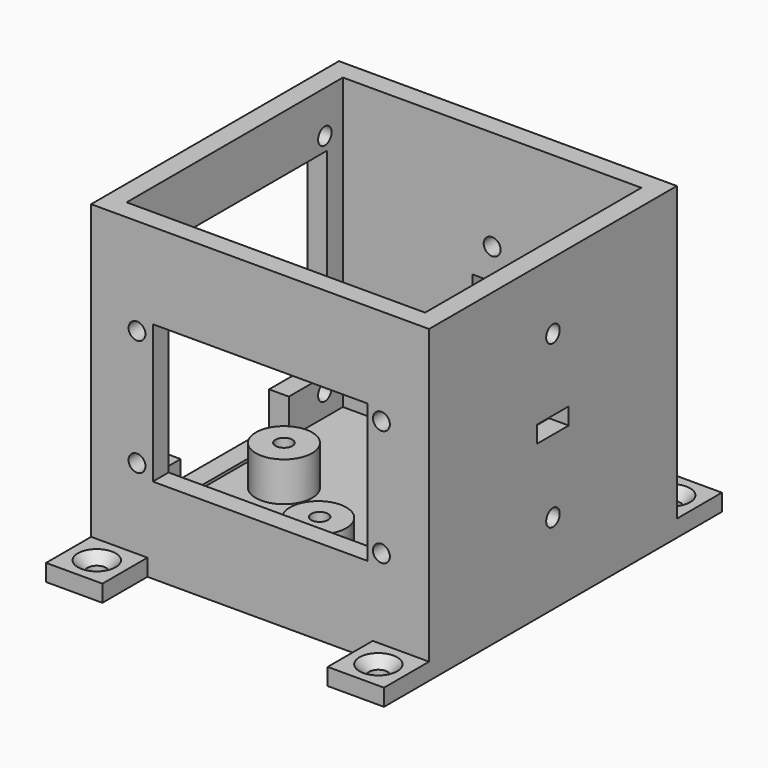
from build123d import *

# Parameters (mm, degrees)
F0_W            = 60
F0_H            = 55
F1_DEPTH        = 55
F2_T            = -3.5
F4_DEPTH        = 5
F6_D            = 3
F6_DEPTH        = 12
F6_TIP          = 0.9012909285
F8_D            = 3
F8_DEPTH        = 12
F8_TIP          = 0.9012909285
F7_W            = 41
F7_H            = 35
F9_DEPTH        = 25
F10_R           = 5
F11_DEPTH       = 7
F13_D           = 3
F13_DEPTH       = 5
F13_TIP         = 0.9012909285
F14_W           = 7
F14_H           = 3
F15_DEPTH       = 5
F16_W           = 7
F16_H           = 5
F17_DEPTH       = 5
F18_W           = 24
F18_H           = 6
F19_DEPTH       = 4
F21_D           = 3
F21_DEPTH       = 5
F21_TIP         = 0.9012909285
F23_D           = 3
F23_DEPTH       = 5
F23_TIP         = 0.9012909285
F24_W           = 10
F24_H           = 3
F25_DEPTH       = 10
F27_D           = 3.3
F27_DEPTH       = 5
F27_CSINK_D     = 6.72
F27_CSINK_ANGLE = 90
F27_TIP         = 0.9914200214
F29_D           = 3.3
F29_DEPTH       = 5
F29_CSINK_D     = 6.72
F29_CSINK_ANGLE = 90
F29_TIP         = 0.9914200214
F30_W           = 10
F30_H           = 3
F31_DEPTH       = 10
F32_DEPTH       = 10
F34_D           = 3.3
F34_DEPTH       = 5
F34_CSINK_D     = 6.72
F34_CSINK_ANGLE = 90
F34_TIP         = 0.9914200214


with BuildPart() as f1:
    # F0 (on Top) → F1 (new body)
    with BuildSketch(Plane.XY):
        Rectangle(F0_W, F0_H)
    extrude(amount=F1_DEPTH)

    # F2
    f2_openings = [f1.faces().sort_by_distance(p)[0] for p in [
        (0, 0, 55),
    ]]
    offset(amount=F2_T, openings=f2_openings)

    # F3 (on face) → F4 (cut)
    with BuildSketch(Plane.XZ.offset(27.5)):
        Polygon((19.05, 39.8), (-19.05, 39.8), (-19.05, 15.2), (0, 15.2), (19.05, 15.2), align=None)
    extrude(amount=-F4_DEPTH, mode=Mode.SUBTRACT)

    # F6
    with Locations(Plane.XZ.offset(27.5)):
        with Locations((-21.8598913223, 37.825), (-21.8598913223, 17.175), (21.5401086777, 17.175), (21.5401086777, 37.825)):
            Hole(F6_D / 2, depth=F6_DEPTH)
            with Locations((0, 0, -(F6_DEPTH + F6_TIP / 2))):  # 118° drill point
                Cone(0, F6_D / 2, F6_TIP, mode=Mode.SUBTRACT)

    # F8
    with Locations(Plane(origin=(-30, 0, 0), x_dir=(0, -1, 0), z_dir=(-1, 0, 0))):
        with Locations((-20, 47.5), (-20, 7.5), (20, 7.5), (20, 47.5)):
            Hole(F8_D / 2, depth=F8_DEPTH)
            with Locations((0, 0, -(F8_DEPTH + F8_TIP / 2))):  # 118° drill point
                Cone(0, F8_D / 2, F8_TIP, mode=Mode.SUBTRACT)

    # F7 (on face) → F9 (cut)
    with BuildSketch(Plane(origin=(-30, 0, 0), x_dir=(0, -1, 0), z_dir=(-1, 0, 0))):
        with Locations((0, 27.5)):
            Rectangle(F7_W, F7_H)
    extrude(amount=-F9_DEPTH, mode=Mode.SUBTRACT)

    # F10 (on face) → F11 (join)
    with BuildSketch(Plane.XY.offset(3.5)):
        with Locations((-17.7631583065, 0)):
            Circle(F10_R)
        with Locations((0, 15.3929423541)):
            Circle(F10_R)
        with Locations((16.9736854732, 0)):
            Circle(F10_R)
        with Locations((0, -14.607058838)):
            Circle(F10_R)
    extrude(amount=F11_DEPTH)

    # F13
    with Locations(Plane.XY.offset(10.5)):
        with Locations((0, 15.4706398025), (-17.7631583065, 0), (0, -14.2931165174), (17.22384803, 0)):
            Hole(F13_D / 2, depth=F13_DEPTH)
            with Locations((0, 0, -(F13_DEPTH + F13_TIP / 2))):  # 118° drill point
                Cone(0, F13_D / 2, F13_TIP, mode=Mode.SUBTRACT)

    # F14 (on face) → F15 (cut)
    with BuildSketch(Plane.YZ.offset(30)):
        with Locations((0, 28.8139954209)):
            Rectangle(F14_W, F14_H)
    extrude(amount=-F15_DEPTH, mode=Mode.SUBTRACT)

    # F16 (on face) → F17 (cut)
    with BuildSketch(Plane(origin=(0, 27.5, 0), x_dir=(-1, 0, 0), z_dir=(0, 1, 0))):
        with Locations((0, 29.2087327689)):
            Rectangle(F16_W, F16_H)
    extrude(amount=-F17_DEPTH, mode=Mode.SUBTRACT)

    # F18 (on face) → F19 (cut)
    with BuildSketch(Plane(origin=(-30, 0, 0), x_dir=(0, -1, 0), z_dir=(-1, 0, 0))):
        with Locations((0, 7)):
            Rectangle(F18_W, F18_H)
    extrude(amount=-F19_DEPTH, mode=Mode.SUBTRACT)

    # F21
    with Locations(Plane.YZ.offset(30)):
        with Locations((0, 43.075658381), (0, 14.3585540354)):
            Hole(F21_D / 2, depth=F21_DEPTH)
            with Locations((0, 0, -(F21_DEPTH + F21_TIP / 2))):  # 118° drill point
                Cone(0, F21_D / 2, F21_TIP, mode=Mode.SUBTRACT)

    # F23
    with Locations(Plane(origin=(0, 27.5, 0), x_dir=(-1, 0, 0), z_dir=(0, 1, 0))):
        with Locations((0, 37.1811050391), (0, 13.7660141307)):
            Hole(F23_D / 2, depth=F23_DEPTH)
            with Locations((0, 0, -(F23_DEPTH + F23_TIP / 2))):  # 118° drill point
                Cone(0, F23_D / 2, F23_TIP, mode=Mode.SUBTRACT)

    # F24 (on face) → F25 (join)
    with BuildSketch(Plane(origin=(0, 27.5, 0), x_dir=(-1, 0, 0), z_dir=(0, 1, 0))):
        with Locations((-25, 1.5)):
            Rectangle(F24_W, F24_H)
        with Locations((25, 1.5)):
            Rectangle(F24_W, F24_H)
    extrude(amount=F25_DEPTH)

    # F27
    with Locations(Plane.XY.offset(3)):
        with Locations((25, 32.5)):
            CounterSinkHole(F27_D / 2, F27_CSINK_D / 2, depth=F27_DEPTH, counter_sink_angle=F27_CSINK_ANGLE)
            with Locations((0, 0, -(F27_DEPTH + F27_TIP / 2))):  # 118° drill point
                Cone(0, F27_D / 2, F27_TIP, mode=Mode.SUBTRACT)

    # F29
    with Locations(Plane.XY.offset(3)):
        with Locations((-25, 32.5)):
            CounterSinkHole(F29_D / 2, F29_CSINK_D / 2, depth=F29_DEPTH, counter_sink_angle=F29_CSINK_ANGLE)
            with Locations((0, 0, -(F29_DEPTH + F29_TIP / 2))):  # 118° drill point
                Cone(0, F29_D / 2, F29_TIP, mode=Mode.SUBTRACT)

    # F30 (on face) → F31 (join)
    with BuildSketch(Plane.XZ.offset(27.5)):
        with Locations((-25, 1.5)):
            Rectangle(F30_W, F30_H)
    extrude(amount=F31_DEPTH)

    # F30 (on face) → F32 (join)
    with BuildSketch(Plane.XZ.offset(27.5)):
        with Locations((25, 1.5)):
            Rectangle(F30_W, F30_H)
    extrude(amount=F32_DEPTH)

    # F34
    with Locations(Plane.XY.offset(3)):
        with Locations((-25, -32.5), (25, -32.5)):
            CounterSinkHole(F34_D / 2, F34_CSINK_D / 2, depth=F34_DEPTH, counter_sink_angle=F34_CSINK_ANGLE)
            with Locations((0, 0, -(F34_DEPTH + F34_TIP / 2))):  # 118° drill point
                Cone(0, F34_D / 2, F34_TIP, mode=Mode.SUBTRACT)


solid = f1.part
